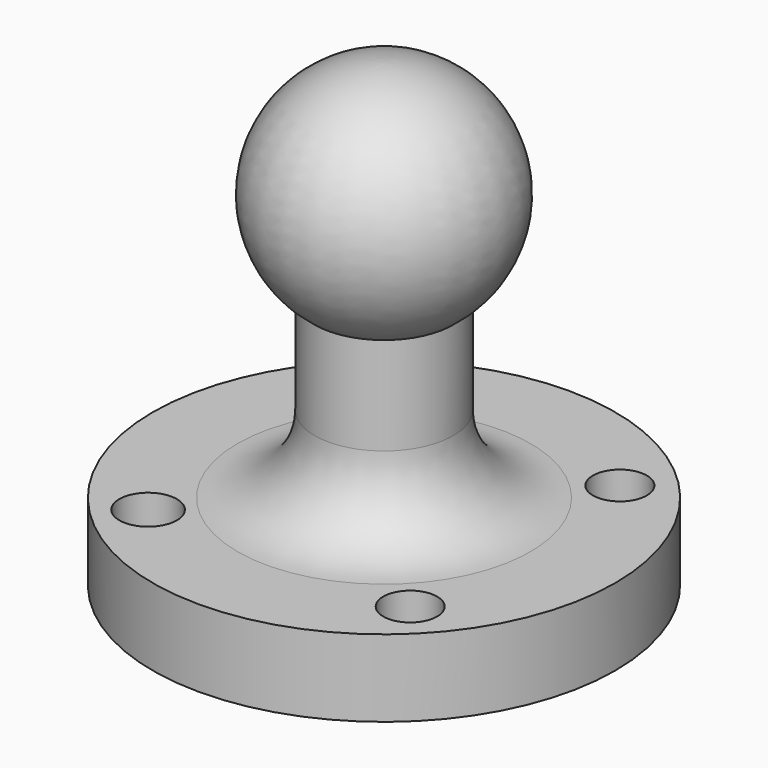
from build123d import *

# Parameters (mm, degrees)
F2_R     = 3.733432
F2_R_2   = 3.5
F2_R_3   = 3.61173
F3_DEPTH = 25
F4_R     = 10


with BuildPart() as f1:
    # F0 (on Front) → F1 (revolve)
    with BuildSketch(Plane.XZ):
        with BuildLine():
            Line((0, 13.896797), (0, 19.229659))
            Line((0, 19.229659), (-9, 19.229659))
            Line((-9, 19.229659), (-9, 16.896797))
            ThreePointArc((-9, 16.896797), (-4.743416, 14.666548), (0, 13.896797))
        make_face()
        with BuildLine():
            Line((-9, 19.229659), (0, 19.229659))
            Line((0, 19.229659), (0, 43.896797))
            ThreePointArc((0, 43.896797), (-14.230249, 33.640214), (-9, 16.896797))
            Line((-9, 16.896797), (-9, 19.229659))
        make_face()
        with BuildLine():
            Line((0, -5.770341), (0, 13.896797))
            ThreePointArc((0, 13.896797), (-4.743416, 14.666548), (-9, 16.896797))
            Line((-9, 16.896797), (-9, -5.770341))
            Line((-9, -5.770341), (0, -5.770341))
        make_face()
        Polygon((0, -13.677974), (0, -5.770341), (-9, -5.770341), (-30, -5.770341), (-30, -15.770341), (0, -15.770341), align=None)
    revolve(axis=Axis((0, 0, 17.993038), (0, 0, -1)))

    # F2 (on face) → F3 (cut)
    with BuildSketch(Plane(origin=(0, 0, -15.770341), x_dir=(1, 0, 0), z_dir=(0, 0, -1))):
        with Locations((-17, 17)):
            Circle(F2_R)
        with Locations((17, 17)):
            Circle(F2_R_2)
        with Locations((-17, -17)):
            Circle(F2_R_3)
        with Locations((17, -17)):
            Circle(F2_R_2)
    extrude(amount=-F3_DEPTH, mode=Mode.SUBTRACT)

    # F4
    f4_edges = [f1.edges().sort_by_distance(p)[0] for p in [
        (9, 0, -5.770341),
    ]]
    fillet(f4_edges, radius=F4_R)


solid = f1.part
